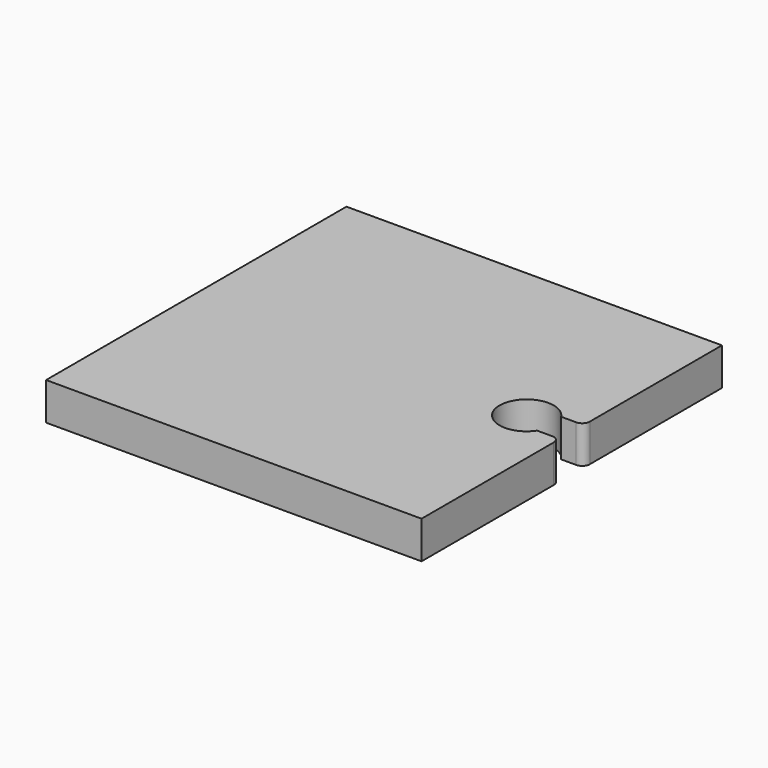
from build123d import *

# Parameters (mm, degrees)
F1_DEPTH = 5


with BuildPart() as f1:
    # F0 (on Top) → F1 (new body)
    with BuildSketch(Plane.XY):
        with BuildLine():
            Line((-25, 25), (-25, -25))
            Line((-25, -25), (25, -25))
            Line((25, -25), (25, -3))
            ThreePointArc((25, -3), (24.707107, -2.292893), (24, -2))
            Line((24, -2), (22, -2))
            ThreePointArc((22, -2), (15.394449, 0), (22, 2))
            Line((22, 2), (24, 2))
            ThreePointArc((24, 2), (24.707107, 2.292893), (25, 3))
            Line((25, 3), (25, 25))
            Line((25, 25), (-25, 25))
        make_face()
    extrude(amount=F1_DEPTH)


solid = f1.part
